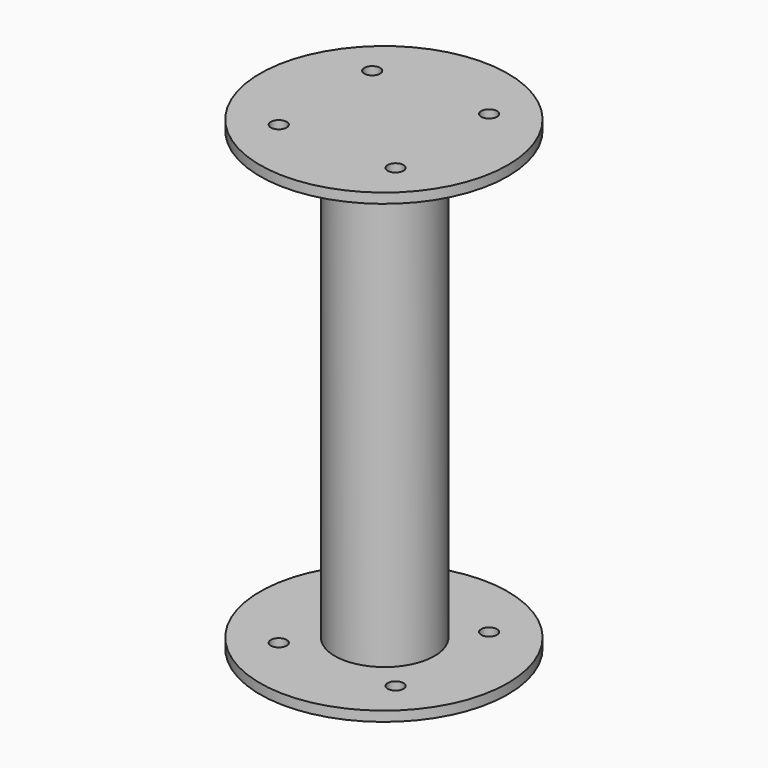
from build123d import *

# Parameters (mm, degrees)
F0_R     = 75
F0_R_2   = 4.7625
F1_DEPTH = 6
F2_R     = 30.15
F2_R_2   = 28.15
F3_DEPTH = 270
F5_R     = 75
F5_R_2   = 4.7625
F6_DEPTH = 6


with BuildPart() as f1:
    # F0 (on Top) → F1 (new body)
    with BuildSketch(Plane.XY):
        with Locations((-0.454545, 0)):
            Circle(F0_R)
        with Locations((-35.809885, -35.355339)):
            Circle(F0_R_2, mode=Mode.SUBTRACT)
        with Locations((34.900794, -35.355339)):
            Circle(F0_R_2, mode=Mode.SUBTRACT)
        with Locations((-35.809885, 35.355339)):
            Circle(F0_R_2, mode=Mode.SUBTRACT)
        with Locations((34.900794, 35.355339)):
            Circle(F0_R_2, mode=Mode.SUBTRACT)
    extrude(amount=F1_DEPTH)

    # F2 (on face) → F3 (join)
    with BuildSketch(Plane.XY.offset(6)):
        Circle(F2_R)
        Circle(F2_R_2, mode=Mode.SUBTRACT)
    extrude(amount=F3_DEPTH)

    # F5 (on offset) → F6 (join)
    with BuildSketch(Plane.XY.offset(276)):
        with Locations((-0.454545, 0)):
            Circle(F5_R)
        with Locations((-35.809885, -35.355339)):
            Circle(F5_R_2, mode=Mode.SUBTRACT)
        with Locations((34.900794, -35.355339)):
            Circle(F5_R_2, mode=Mode.SUBTRACT)
        with Locations((-35.809885, 35.355339)):
            Circle(F5_R_2, mode=Mode.SUBTRACT)
        with Locations((34.900794, 35.355339)):
            Circle(F5_R_2, mode=Mode.SUBTRACT)
    extrude(amount=F6_DEPTH)


solid = f1.part
